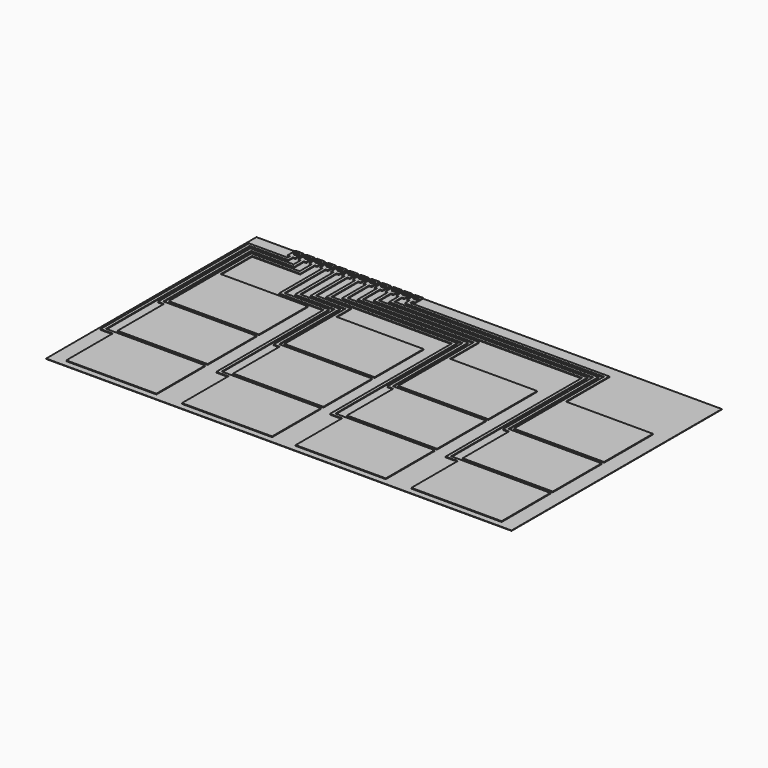
from build123d import *

# Parameters (mm, degrees)
F0_W     = 308
F0_H     = 174
F1_DEPTH = 0.25
F2_R     = 1.6
F3_DEPTH = 0.5


with BuildPart() as f1:
    # F0 (on Top) → F1 (new body)
    with BuildSketch(Plane.XY):
        Rectangle(F0_W, F0_H)
    extrude(amount=F1_DEPTH)

    # F2 (on face) → F3 (join)
    with BuildSketch(Plane.XY.offset(0.25)):
        Polygon((-86.945909, 80.4), (-86.945909, 87), (-92.145909, 87), (-92.145909, 80.4), (-90.545909, 80.4), (-88.545909, 80.4), align=None)
        with Locations((-89.545909, 84.5)):
            Circle(F2_R, mode=Mode.SUBTRACT)
        Polygon((-88.545909, 54.4), (-88.545909, 80.4), (-90.545909, 80.4), (-90.545909, 52.4), (-67.437433, 52.4), (-67.437433, 42.4), (-65.437433, 42.4), (-65.437433, 54.4), align=None)
        Polygon((-7.798169, 42.4), (-65.437433, 42.4), (-67.437433, 42.4), (-67.437433, 2), (-7.798169, 2), align=None)
        Polygon((-94.145909, 87), (-99.345909, 87), (-99.345909, 80.4), (-97.745909, 80.4), (-95.745909, 80.4), (-94.145909, 80.4), align=None)
        with Locations((-96.745909, 84.5)):
            Circle(F2_R, mode=Mode.SUBTRACT)
        Polygon((-95.745909, 80.4), (-97.745909, 80.4), (-97.745909, 48.4), (-71.437433, 48.4), (-71.437433, -2), (-67.437433, -2), (-67.437433, 0), (-69.437433, 0), (-69.437433, 50.4), (-95.745909, 50.4), align=None)
        Polygon((-67.437433, 0), (-67.437433, -2), (-67.437433, -40.4), (-7.798169, -40.4), (-7.798169, 0), align=None)
        Polygon((-101.345909, 87), (-106.545909, 87), (-106.545909, 80.4), (-104.945909, 80.4), (-102.945909, 80.4), (-101.345909, 80.4), align=None)
        with Locations((-103.945909, 84.5)):
            Circle(F2_R, mode=Mode.SUBTRACT)
        Polygon((-102.945909, 80.4), (-104.945909, 80.4), (-104.945909, 44.4), (-75.437433, 44.4), (-75.437433, -44.4), (-67.437433, -44.4), (-67.437433, -42.4), (-73.437433, -42.4), (-73.437433, 46.4), (-102.945909, 46.4), align=None)
        Polygon((-67.437433, -42.4), (-67.437433, -44.4), (-67.437433, -82.8), (-7.798169, -82.8), (-7.798169, -42.4), align=None)
        Polygon((-108.545909, 87), (-113.745909, 87), (-113.745909, 80.4), (-112.145909, 80.4), (-110.145909, 80.4), (-108.545909, 80.4), align=None)
        with Locations((-111.145909, 84.5)):
            Circle(F2_R, mode=Mode.SUBTRACT)
        Polygon((-110.145909, 80.4), (-112.145909, 80.4), (-112.145909, 70.4), (-144, 70.4), (-144, 42.4), (-142, 42.4), (-142, 68.4), (-110.145909, 68.4), align=None)
        Polygon((-142, 42.4), (-144, 42.4), (-144, 2), (-84.360736, 2), (-84.360736, 42.4), align=None)
        Polygon((-115.745909, 87), (-120.945909, 87), (-120.945909, 80.4), (-119.345909, 80.4), (-117.345909, 80.4), (-115.745909, 80.4), align=None)
        with Locations((-118.345909, 84.5)):
            Circle(F2_R, mode=Mode.SUBTRACT)
        Polygon((-117.345909, 80.4), (-119.345909, 80.4), (-119.345909, 74.4), (-148, 74.4), (-148, -2), (-144, -2), (-144, 0), (-146, 0), (-146, 72.4), (-117.345909, 72.4), align=None)
        Polygon((-144, 0), (-144, -2), (-144, -40.4), (-84.360736, -40.4), (-84.360736, 0), align=None)
        Polygon((-122.945909, 87), (-128.145909, 87), (-128.145909, 80.4), (-126.545909, 80.4), (-124.545909, 80.4), (-122.945909, 80.4), align=None)
        with Locations((-125.545909, 84.5)):
            Circle(F2_R, mode=Mode.SUBTRACT)
        Polygon((-124.545909, 80.4), (-126.545909, 80.4), (-126.545909, 78.4), (-152, 78.4), (-152, -44.4), (-144, -44.4), (-144, -42.4), (-150, -42.4), (-150, 76.4), (-124.545909, 76.4), align=None)
        Polygon((-144, -42.4), (-144, -44.4), (-144, -82.8), (-84.360736, -82.8), (-84.360736, -42.4), align=None)
        Polygon((-81.345909, 80.4), (-79.745909, 80.4), (-79.745909, 87), (-84.945909, 87), (-84.945909, 80.4), (-83.345909, 80.4), align=None)
        with Locations((-82.345909, 84.5)):
            Circle(F2_R, mode=Mode.SUBTRACT)
        Polygon((-81.345909, 58.4), (-81.345909, 80.4), (-83.345909, 80.4), (-83.345909, 56.4), (-0.201831, 56.4), (-0.201831, -44.4), (7.798169, -44.4), (7.798169, -42.4), (1.798169, -42.4), (1.798169, 58.4), align=None)
        Polygon((67.437433, -42.4), (7.798169, -42.4), (7.798169, -44.4), (7.798169, -82.8), (67.437433, -82.8), align=None)
        Polygon((-72.545909, 87), (-77.745909, 87), (-77.745909, 80.4), (-76.145909, 80.4), (-74.145909, 80.4), (-72.545909, 80.4), align=None)
        with Locations((-75.145909, 84.5)):
            Circle(F2_R, mode=Mode.SUBTRACT)
        Polygon((-74.145909, 80.4), (-76.145909, 80.4), (-76.145909, 60.4), (3.798169, 60.4), (3.798169, -2), (7.798169, -2), (7.798169, 0), (5.798169, 0), (5.798169, 62.4), (-74.145909, 62.4), align=None)
        Polygon((7.798169, 0), (7.798169, -2), (7.798169, -40.4), (67.437433, -40.4), (67.437433, 0), align=None)
        Polygon((-65.345909, 87), (-70.545909, 87), (-70.545909, 80.4), (-68.945909, 80.4), (-66.945909, 80.4), (-65.345909, 80.4), align=None)
        with Locations((-67.945909, 84.5)):
            Circle(F2_R, mode=Mode.SUBTRACT)
        Polygon((-66.945909, 80.4), (-68.945909, 80.4), (-68.945909, 64.4), (7.798169, 64.4), (7.798169, 42.4), (9.798169, 42.4), (9.798169, 66.4), (-66.945909, 66.4), align=None)
        Polygon((9.798169, 42.4), (7.798169, 42.4), (7.798169, 2), (67.437433, 2), (67.437433, 42.4), align=None)
        Polygon((-58.145909, 87), (-63.345909, 87), (-63.345909, 80.4), (-61.745909, 80.4), (-59.745909, 80.4), (-58.145909, 80.4), align=None)
        with Locations((-60.745909, 84.5)):
            Circle(F2_R, mode=Mode.SUBTRACT)
        Polygon((-59.745909, 80.4), (-61.745909, 80.4), (-61.745909, 68.4), (76.360736, 68.4), (76.360736, -44.4), (84.360736, -44.4), (84.360736, -42.4), (78.360736, -42.4), (78.360736, 70.4), (-59.745909, 70.4), align=None)
        Polygon((84.360736, -42.4), (84.360736, -44.4), (84.360736, -82.8), (144.097387, -82.8), (144, -42.4), align=None)
        Polygon((-50.945909, 87), (-56.145909, 87), (-56.145909, 80.4), (-54.545909, 80.4), (-52.545909, 80.4), (-50.945909, 80.4), align=None)
        with Locations((-53.545909, 84.5)):
            Circle(F2_R, mode=Mode.SUBTRACT)
        Polygon((-52.545909, 80.4), (-54.545909, 80.4), (-54.545909, 72.4), (80.360736, 72.4), (80.360736, -2), (84.360736, -2), (84.360736, 0), (82.360736, 0), (82.360736, 74.4), (-52.545909, 74.4), align=None)
        Polygon((84.360736, 0), (84.360736, -2), (84.360736, -40.4), (144, -40.4), (144, 0), align=None)
        Polygon((-43.745909, 87), (-48.945909, 87), (-48.945909, 80.4), (-47.345909, 80.4), (-45.345909, 80.4), (-43.745909, 80.4), align=None)
        with Locations((-46.345909, 84.5)):
            Circle(F2_R, mode=Mode.SUBTRACT)
        Polygon((-45.345909, 80.4), (-47.345909, 80.4), (-47.345909, 76.4), (84.360736, 76.4), (84.360736, 42.4), (86.360736, 42.4), (86.360736, 78.4), (-45.345909, 78.4), align=None)
        Polygon((86.360736, 42.4), (84.360736, 42.4), (84.360736, 2), (144, 2), (144, 42.4), align=None)
    extrude(amount=F3_DEPTH)


solid = f1.part
